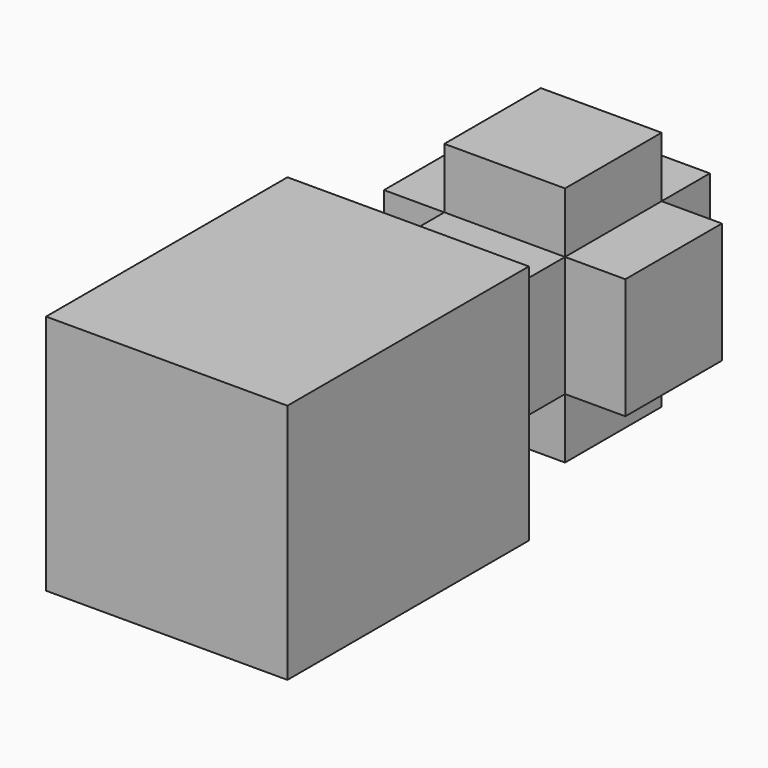
from build123d import *

# Parameters (mm, degrees)
F0_W          = 10
F0_H          = 10
F1_DEPTH      = 25
F2_W          = 20
F2_H          = 20
F3_DEPTH      = 25
F4_W          = 10
F4_H          = 10
F5_DEPTH      = 5
F5_DEPTH_BACK = 15
F6_W          = 10
F6_H          = 10
F7_DEPTH      = 5
F7_DEPTH_BACK = 15


with BuildPart() as f1:
    # F0 (on Front) → F1 (new body)
    with BuildSketch(Plane.XZ):
        Rectangle(F0_W, F0_H)
    extrude(amount=F1_DEPTH)

    # F2 (on face) → F3 (join)
    with BuildSketch(Plane.XZ.offset(25)):
        Rectangle(F2_W, F2_H)
    extrude(amount=F3_DEPTH)

    # F4 (on face) → F5 (join, two sides)
    with BuildSketch(Plane.XY.offset(5)) as f5_sk:
        with Locations((0, -10)):
            Rectangle(F4_W, F4_H)
    extrude(amount=F5_DEPTH)
    extrude(f5_sk.sketch, amount=-F5_DEPTH_BACK)

    # F6 (on face) → F7 (join, two sides)
    with BuildSketch(Plane(origin=(-5, 0, 0), x_dir=(0, -1, 0), z_dir=(-1, 0, 0))) as f7_sk:
        with Locations((10, 0)):
            Rectangle(F6_W, F6_H)
    extrude(amount=F7_DEPTH)
    extrude(f7_sk.sketch, amount=-F7_DEPTH_BACK)


solid = f1.part
